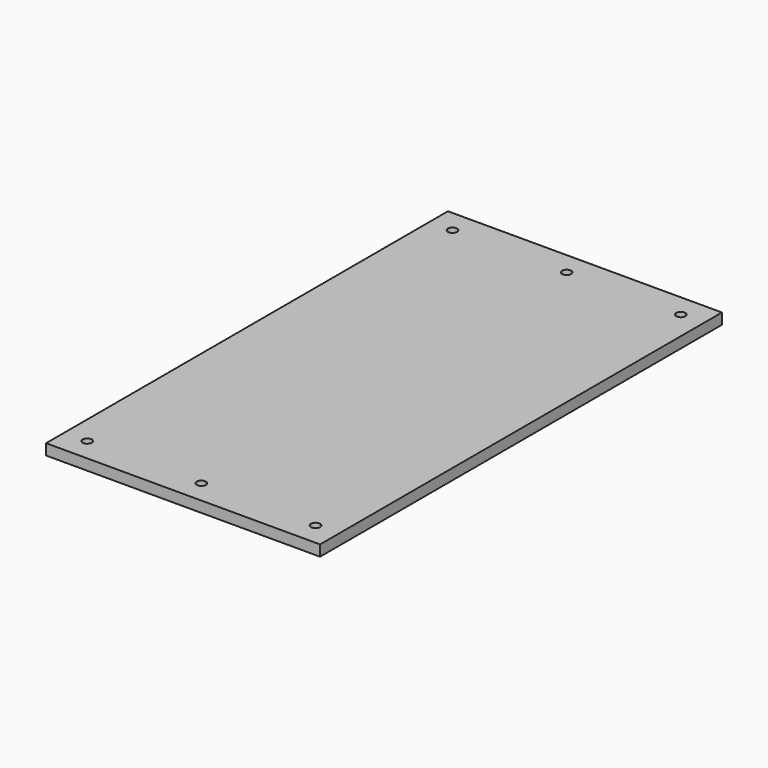
from build123d import *

# Parameters (mm, degrees)
F0_W     = 120
F0_H     = 220
F0_R     = 2
F1_DEPTH = 4.7625


with BuildPart() as f1:
    # F0 (on Top) → F1 (new body)
    with BuildSketch(Plane.XY):
        with Locations((12.572888, -59.899519)):
            Rectangle(F0_W, F0_H)
        with Locations((-37.427112, -159.899519)):
            Circle(F0_R, mode=Mode.SUBTRACT)
        with Locations((12.572888, -159.899519)):
            Circle(F0_R, mode=Mode.SUBTRACT)
        with Locations((62.572888, -159.899519)):
            Circle(F0_R, mode=Mode.SUBTRACT)
        with Locations((-37.427112, 40.100481)):
            Circle(F0_R, mode=Mode.SUBTRACT)
        with Locations((12.572888, 40.100481)):
            Circle(F0_R, mode=Mode.SUBTRACT)
        with Locations((62.572888, 40.100481)):
            Circle(F0_R, mode=Mode.SUBTRACT)
    extrude(amount=F1_DEPTH)


solid = f1.part
